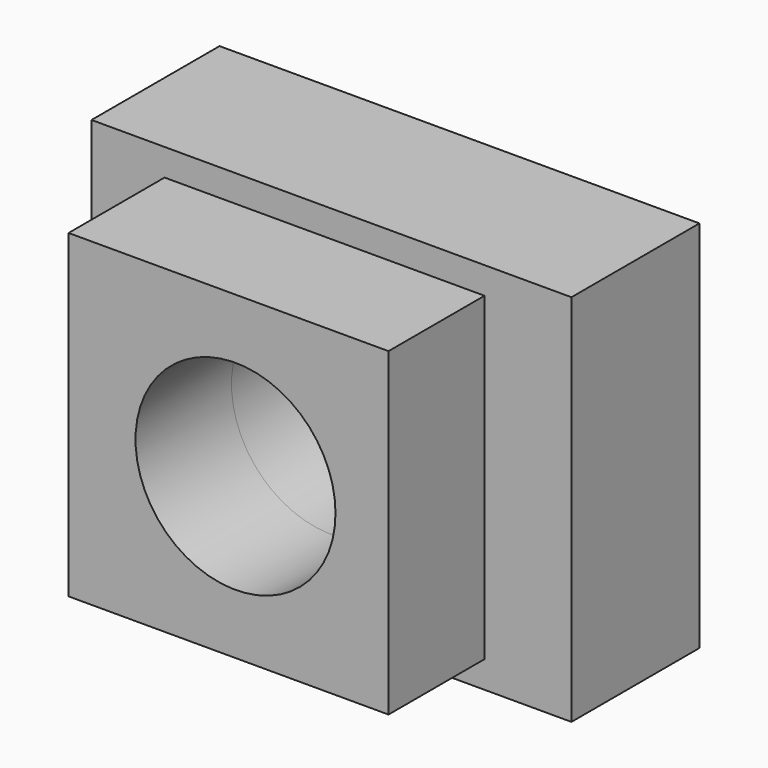
from build123d import *

# Parameters (mm, degrees)
F0_W     = 101.6
F0_H     = 101.6
F0_R     = 31.75
F1_DEPTH = 38.1
F0_W_2   = 152.4
F0_H_2   = 118.724518
F2_DEPTH = 50.8


with BuildPart() as f1:
    # F0 (on Front) → F1 (new body)
    with BuildSketch(Plane.XZ):
        with Locations((-2.212258, 0)):
            Rectangle(F0_W, F0_H)
        Circle(F0_R, mode=Mode.SUBTRACT)
    extrude(amount=F1_DEPTH)


with BuildPart() as f2:
    # F0 (on Front) → F2 (new body)
    with BuildSketch(Plane.XZ):
        Rectangle(F0_W_2, F0_H_2)
        with Locations((-2.212258, 0)):
            Rectangle(F0_W, F0_H, mode=Mode.SUBTRACT)
        with Locations((-2.212258, 0)):
            Rectangle(F0_W, F0_H)
        Circle(F0_R, mode=Mode.SUBTRACT)
    extrude(amount=-F2_DEPTH)


solid = Compound([f1.part, f2.part])
